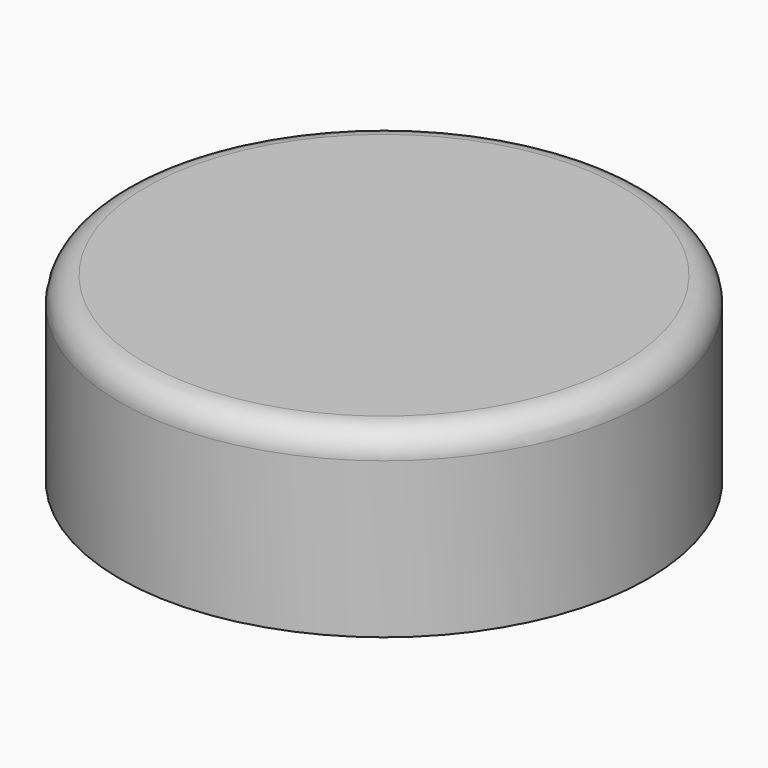
from build123d import *

# Parameters (mm, degrees)
CYLINDER001_R     = 4.02
CYLINDER001_DEPTH = 2.51
CYLINDER_R        = 5.1
CYLINDER_DEPTH    = 3.5
FILLET_R          = 0.5


with BuildPart() as cylinder001:
    # Cylinder001 → Cylinder001 (new body)
    with BuildSketch(Plane.XY):
        Circle(CYLINDER001_R)
    extrude(amount=CYLINDER001_DEPTH)


with BuildPart() as fillet_body:
    # Cylinder → Cylinder (new body)
    with BuildSketch(Plane.XY):
        Circle(CYLINDER_R)
    extrude(amount=CYLINDER_DEPTH)

    # Cut: cut Cylinder001
    add(cylinder001.part, mode=Mode.SUBTRACT)

    # Fillet
    fillet_edges = [fillet_body.edges().sort_by_distance(p)[0] for p in [
        (-5.1, 0, 3.5),
    ]]
    fillet(fillet_edges, radius=FILLET_R)


solid = fillet_body.part
